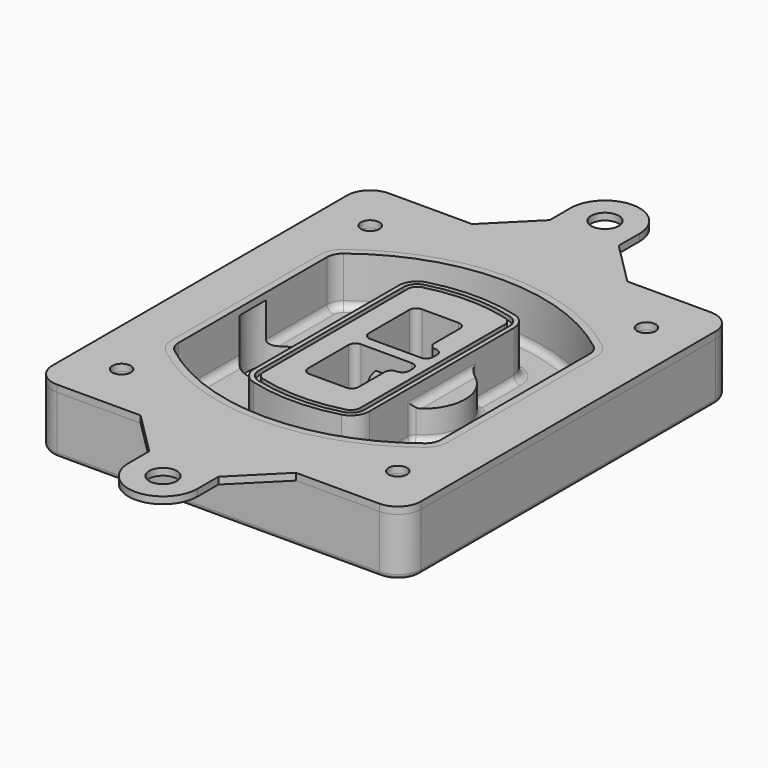
from build123d import *

# Parameters (mm, degrees)
F0_R      = 4
F1_DEPTH  = 25
F2_DEPTH  = 3
F3_DEPTH  = 18
F5_DEPTH  = 21
F6_DEPTH  = 2
F8_DEPTH  = 20
F9_DEPTH  = 16
F10_DEPTH = 25
F7_R      = 6
F7_R_2    = 4
F11_DEPTH = 6
F13_DEPTH = 9
F14_R     = 3
F15_R     = 2
F16_R     = 4
F16_R_2   = 6
F17_DEPTH = 3


with BuildPart() as f1:
    # F0 (on Top) → F1 (new body)
    with BuildSketch(Plane.XY):
        with BuildLine():
            ThreePointArc((-80, -80), (-77.0710678119, -87.0710678119), (-70, -90))
            Line((-70, -90), (70, -90))
            ThreePointArc((70, -90), (77.0710678119, -87.0710678119), (80, -80))
            Line((80, -80), (80, 80))
            ThreePointArc((80, 80), (77.0710678119, 87.0710678119), (70, 90))
            Line((70, 90), (-70, 90))
            ThreePointArc((-70, 90), (-77.0710678119, 87.0710678119), (-80, 80))
            Line((-80, 80), (-80, -80))
        make_face()
        with Locations((-60, -67.5)):
            Circle(F0_R, mode=Mode.SUBTRACT)
        with Locations((60, -67.5)):
            Circle(F0_R, mode=Mode.SUBTRACT)
        with Locations((-60, 67.5)):
            Circle(F0_R, mode=Mode.SUBTRACT)
        with BuildLine():
            ThreePointArc((-64, 40.2934422872), (-62.5820384798, 46.4328484224), (-58.6153846154, 51.3286200352))
            ThreePointArc((-58.6153846154, 51.3286200352), (0, 71.5), (58.6153846154, 51.3286200352))
            ThreePointArc((58.6153846154, 51.3286200352), (62.5820384798, 46.4328484224), (64, 40.2934422872))
            Line((64, 40.2934422872), (64, -40.2934422872))
            ThreePointArc((64, -40.2934422872), (62.5820384798, -46.4328484224), (58.6153846154, -51.3286200352))
            ThreePointArc((58.6153846154, -51.3286200352), (0, -71.5), (-58.6153846154, -51.3286200352))
            ThreePointArc((-58.6153846154, -51.3286200352), (-62.5820384798, -46.4328484224), (-64, -40.2934422872))
            Line((-64, -40.2934422872), (-64, 40.2934422872))
        make_face(mode=Mode.SUBTRACT)
        with Locations((60, 67.5)):
            Circle(F0_R, mode=Mode.SUBTRACT)
        with BuildLine():
            ThreePointArc((58.6153846154, 51.3286200352), (0, 71.5), (-58.6153846154, 51.3286200352))
            ThreePointArc((-58.6153846154, 51.3286200352), (-62.5820384798, 46.4328484224), (-64, 40.2934422872))
            Line((-64, 40.2934422872), (-64, -40.2934422872))
            ThreePointArc((-64, -40.2934422872), (-62.5820384798, -46.4328484224), (-58.6153846154, -51.3286200352))
            ThreePointArc((-58.6153846154, -51.3286200352), (0, -71.5), (58.6153846154, -51.3286200352))
            ThreePointArc((58.6153846154, -51.3286200352), (62.5820384798, -46.4328484224), (64, -40.2934422872))
            Line((64, -40.2934422872), (64, 40.2934422872))
            ThreePointArc((64, 40.2934422872), (62.5820384798, 46.4328484224), (58.6153846154, 51.3286200352))
        make_face()
        with BuildLine():
            Line((-60, -40.2934422872), (-60, 40.2934422872))
            ThreePointArc((-60, 40.2934422872), (-58.9871703427, 44.6787323838), (-56.1538461538, 48.1757121072))
            ThreePointArc((-56.1538461538, 48.1757121072), (0, 67.5), (56.1538461538, 48.1757121072))
            ThreePointArc((56.1538461538, 48.1757121072), (58.9871703427, 44.6787323838), (60, 40.2934422872))
            Line((60, 40.2934422872), (60, -40.2934422872))
            ThreePointArc((60, -40.2934422872), (58.9871703427, -44.6787323838), (56.1538461538, -48.1757121072))
            ThreePointArc((56.1538461538, -48.1757121072), (0, -67.5), (-56.1538461538, -48.1757121072))
            ThreePointArc((-56.1538461538, -48.1757121072), (-58.9871703427, -44.6787323838), (-60, -40.2934422872))
        make_face(mode=Mode.SUBTRACT)
        with BuildLine():
            ThreePointArc((-56.1538461538, 48.1757121072), (-58.9871703427, 44.6787323838), (-60, 40.2934422872))
            Line((-60, 40.2934422872), (-60, -40.2934422872))
            ThreePointArc((-60, -40.2934422872), (-58.9871703427, -44.6787323838), (-56.1538461538, -48.1757121072))
            ThreePointArc((-56.1538461538, -48.1757121072), (0, -67.5), (56.1538461538, -48.1757121072))
            ThreePointArc((56.1538461538, -48.1757121072), (58.9871703427, -44.6787323838), (60, -40.2934422872))
            Line((60, -40.2934422872), (60, 40.2934422872))
            ThreePointArc((60, 40.2934422872), (58.9871703427, 44.6787323838), (56.1538461538, 48.1757121072))
            ThreePointArc((56.1538461538, 48.1757121072), (0, 67.5), (-56.1538461538, 48.1757121072))
        make_face()
        with BuildLine():
            ThreePointArc((54.3076923077, 45.8110311612), (56.2910192399, 43.3631453548), (57, 40.2934422872))
            Line((57, 40.2934422872), (57, -40.2934422872))
            ThreePointArc((57, -40.2934422872), (56.2910192399, -43.3631453548), (54.3076923077, -45.8110311612))
            ThreePointArc((54.3076923077, -45.8110311612), (0, -64.5), (-54.3076923077, -45.8110311612))
            ThreePointArc((-54.3076923077, -45.8110311612), (-56.2910192399, -43.3631453548), (-57, -40.2934422872))
            Line((-57, -40.2934422872), (-57, 40.2934422872))
            ThreePointArc((-57, 40.2934422872), (-56.2910192399, 43.3631453548), (-54.3076923077, 45.8110311612))
            ThreePointArc((-54.3076923077, 45.8110311612), (0, 64.5), (54.3076923077, 45.8110311612))
        make_face(mode=Mode.SUBTRACT)
        with BuildLine():
            Line((57, -40.2934422872), (57, 40.2934422872))
            ThreePointArc((57, 40.2934422872), (56.2910192399, 43.3631453548), (54.3076923077, 45.8110311612))
            ThreePointArc((54.3076923077, 45.8110311612), (0, 64.5), (-54.3076923077, 45.8110311612))
            ThreePointArc((-54.3076923077, 45.8110311612), (-56.2910192399, 43.3631453548), (-57, 40.2934422872))
            Line((-57, 40.2934422872), (-57, -40.2934422872))
            ThreePointArc((-57, -40.2934422872), (-56.2910192399, -43.3631453548), (-54.3076923077, -45.8110311612))
            ThreePointArc((-54.3076923077, -45.8110311612), (0, -64.5), (54.3076923077, -45.8110311612))
            ThreePointArc((54.3076923077, -45.8110311612), (56.2910192399, -43.3631453548), (57, -40.2934422872))
        make_face()
    extrude(amount=-F1_DEPTH)

    # F0 (on Top) → F2 (join)
    with BuildSketch(Plane.XY):
        with BuildLine():
            ThreePointArc((-56.1538461538, 48.1757121072), (-58.9871703427, 44.6787323838), (-60, 40.2934422872))
            Line((-60, 40.2934422872), (-60, -40.2934422872))
            ThreePointArc((-60, -40.2934422872), (-58.9871703427, -44.6787323838), (-56.1538461538, -48.1757121072))
            ThreePointArc((-56.1538461538, -48.1757121072), (0, -67.5), (56.1538461538, -48.1757121072))
            ThreePointArc((56.1538461538, -48.1757121072), (58.9871703427, -44.6787323838), (60, -40.2934422872))
            Line((60, -40.2934422872), (60, 40.2934422872))
            ThreePointArc((60, 40.2934422872), (58.9871703427, 44.6787323838), (56.1538461538, 48.1757121072))
            ThreePointArc((56.1538461538, 48.1757121072), (0, 67.5), (-56.1538461538, 48.1757121072))
        make_face()
        with BuildLine():
            ThreePointArc((54.3076923077, 45.8110311612), (56.2910192399, 43.3631453548), (57, 40.2934422872))
            Line((57, 40.2934422872), (57, -40.2934422872))
            ThreePointArc((57, -40.2934422872), (56.2910192399, -43.3631453548), (54.3076923077, -45.8110311612))
            ThreePointArc((54.3076923077, -45.8110311612), (0, -64.5), (-54.3076923077, -45.8110311612))
            ThreePointArc((-54.3076923077, -45.8110311612), (-56.2910192399, -43.3631453548), (-57, -40.2934422872))
            Line((-57, -40.2934422872), (-57, 40.2934422872))
            ThreePointArc((-57, 40.2934422872), (-56.2910192399, 43.3631453548), (-54.3076923077, 45.8110311612))
            ThreePointArc((-54.3076923077, 45.8110311612), (0, 64.5), (54.3076923077, 45.8110311612))
        make_face(mode=Mode.SUBTRACT)
    extrude(amount=F2_DEPTH)

    # F0 (on Top) → F3 (cut)
    with BuildSketch(Plane.XY):
        with BuildLine():
            Line((57, -40.2934422872), (57, 40.2934422872))
            ThreePointArc((57, 40.2934422872), (56.2910192399, 43.3631453548), (54.3076923077, 45.8110311612))
            ThreePointArc((54.3076923077, 45.8110311612), (0, 64.5), (-54.3076923077, 45.8110311612))
            ThreePointArc((-54.3076923077, 45.8110311612), (-56.2910192399, 43.3631453548), (-57, 40.2934422872))
            Line((-57, 40.2934422872), (-57, -40.2934422872))
            ThreePointArc((-57, -40.2934422872), (-56.2910192399, -43.3631453548), (-54.3076923077, -45.8110311612))
            ThreePointArc((-54.3076923077, -45.8110311612), (0, -64.5), (54.3076923077, -45.8110311612))
            ThreePointArc((54.3076923077, -45.8110311612), (56.2910192399, -43.3631453548), (57, -40.2934422872))
        make_face()
    extrude(amount=-F3_DEPTH, mode=Mode.SUBTRACT)

    # F4 (on face) → F5 (join, through all)
    with BuildSketch(Plane.XY.offset(3)):
        with BuildLine():
            ThreePointArc((-25, -39.2465276821), (-23.3511545998, -44.1109737193), (-19.0842911877, -46.9702398883))
            ThreePointArc((-19.0842911877, -46.9702398883), (0, -49.5), (19.0842911877, -46.9702398883))
            ThreePointArc((19.0842911877, -46.9702398883), (23.3511545998, -44.1109737193), (25, -39.2465276821))
            Line((25, -39.2465276821), (25, 39.2465276821))
            ThreePointArc((25, 39.2465276821), (23.3511545998, 44.1109737193), (19.0842911877, 46.9702398883))
            ThreePointArc((19.0842911877, 46.9702398883), (0, 49.5), (-19.0842911877, 46.9702398883))
            ThreePointArc((-19.0842911877, 46.9702398883), (-23.3511545998, 44.1109737193), (-25, 39.2465276821))
            Line((-25, 39.2465276821), (-25, -39.2465276821))
        make_face()
        with BuildLine():
            ThreePointArc((18.5632183908, 45.0393118368), (21.7633659499, 42.89486221), (23, 39.2465276821))
            Line((23, 39.2465276821), (23, -39.2465276821))
            ThreePointArc((23, -39.2465276821), (21.7633659499, -42.89486221), (18.5632183908, -45.0393118368))
            ThreePointArc((18.5632183908, -45.0393118368), (0, -47.5), (-18.5632183908, -45.0393118368))
            ThreePointArc((-18.5632183908, -45.0393118368), (-21.7633659499, -42.89486221), (-23, -39.2465276821))
            Line((-23, -39.2465276821), (-23, 39.2465276821))
            ThreePointArc((-23, 39.2465276821), (-21.7633659499, 42.89486221), (-18.5632183908, 45.0393118368))
            ThreePointArc((-18.5632183908, 45.0393118368), (0, 47.5), (18.5632183908, 45.0393118368))
        make_face(mode=Mode.SUBTRACT)
        with BuildLine():
            Line((23, -39.2465276821), (23, 39.2465276821))
            ThreePointArc((23, 39.2465276821), (21.7633659499, 42.89486221), (18.5632183908, 45.0393118368))
            ThreePointArc((18.5632183908, 45.0393118368), (0, 47.5), (-18.5632183908, 45.0393118368))
            ThreePointArc((-18.5632183908, 45.0393118368), (-21.7633659499, 42.89486221), (-23, 39.2465276821))
            Line((-23, 39.2465276821), (-23, -39.2465276821))
            ThreePointArc((-23, -39.2465276821), (-21.7633659499, -42.89486221), (-18.5632183908, -45.0393118368))
            ThreePointArc((-18.5632183908, -45.0393118368), (0, -47.5), (18.5632183908, -45.0393118368))
            ThreePointArc((18.5632183908, -45.0393118368), (21.7633659499, -42.89486221), (23, -39.2465276821))
        make_face()
        with BuildLine():
            ThreePointArc((18.0421455939, 43.1083837852), (20.1755772999, 41.6787507007), (21, 39.2465276821))
            Line((21, 39.2465276821), (21, -39.2465276821))
            ThreePointArc((21, -39.2465276821), (20.1755772999, -41.6787507007), (18.0421455939, -43.1083837852))
            ThreePointArc((18.0421455939, -43.1083837852), (0, -45.5), (-18.0421455939, -43.1083837852))
            ThreePointArc((-18.0421455939, -43.1083837852), (-20.1755772999, -41.6787507007), (-21, -39.2465276821))
            Line((-21, -39.2465276821), (-21, 39.2465276821))
            ThreePointArc((-21, 39.2465276821), (-20.1755772999, 41.6787507007), (-18.0421455939, 43.1083837852))
            ThreePointArc((-18.0421455939, 43.1083837852), (0, 45.5), (18.0421455939, 43.1083837852))
        make_face(mode=Mode.SUBTRACT)
        with BuildLine():
            Line((21, -39.2465276821), (21, 39.2465276821))
            ThreePointArc((21, 39.2465276821), (20.1755772999, 41.6787507007), (18.0421455939, 43.1083837852))
            ThreePointArc((18.0421455939, 43.1083837852), (0, 45.5), (-18.0421455939, 43.1083837852))
            ThreePointArc((-18.0421455939, 43.1083837852), (-20.1755772999, 41.6787507007), (-21, 39.2465276821))
            Line((-21, 39.2465276821), (-21, -39.2465276821))
            ThreePointArc((-21, -39.2465276821), (-20.1755772999, -41.6787507007), (-18.0421455939, -43.1083837852))
            ThreePointArc((-18.0421455939, -43.1083837852), (0, -45.5), (18.0421455939, -43.1083837852))
            ThreePointArc((18.0421455939, -43.1083837852), (20.1755772999, -41.6787507007), (21, -39.2465276821))
        make_face()
        with BuildLine():
            Line((-8, -2.5), (14, -2.5))
            ThreePointArc((14, -2.5), (16.1213203436, -3.3786796564), (17, -5.5))
            Line((17, -5.5), (17, -7.5))
            ThreePointArc((17, -7.5), (16.1213203436, -9.6213203436), (14, -10.5))
            ThreePointArc((14, -10.5), (11.8786796564, -11.3786796564), (11, -13.5))
            Line((11, -13.5), (11, -27.5))
            ThreePointArc((11, -27.5), (10.1213203436, -29.6213203436), (8, -30.5))
            Line((8, -30.5), (-8, -30.5))
            ThreePointArc((-8, -30.5), (-10.1213203436, -29.6213203436), (-11, -27.5))
            Line((-11, -27.5), (-11, -5.5))
            ThreePointArc((-11, -5.5), (-10.1213203436, -3.3786796564), (-8, -2.5))
        make_face(mode=Mode.SUBTRACT)
        with BuildLine():
            ThreePointArc((-8, 2.5), (-10.1213203436, 3.3786796564), (-11, 5.5))
            Line((-11, 5.5), (-11, 27.5))
            ThreePointArc((-11, 27.5), (-10.1213203436, 29.6213203436), (-8, 30.5))
            Line((-8, 30.5), (8, 30.5))
            ThreePointArc((8, 30.5), (10.1213203436, 29.6213203436), (11, 27.5))
            Line((11, 27.5), (11, 13.5))
            ThreePointArc((11, 13.5), (11.8786796564, 11.3786796564), (14, 10.5))
            ThreePointArc((14, 10.5), (16.1213203436, 9.6213203436), (17, 7.5))
            Line((17, 7.5), (17, 5.5))
            ThreePointArc((17, 5.5), (16.1213203436, 3.3786796564), (14, 2.5))
            Line((14, 2.5), (-8, 2.5))
        make_face(mode=Mode.SUBTRACT)
    extrude(amount=-F5_DEPTH)

    # F4 (on face) → F6 (cut)
    with BuildSketch(Plane.XY.offset(3)):
        with BuildLine():
            Line((23, -39.2465276821), (23, 39.2465276821))
            ThreePointArc((23, 39.2465276821), (21.7633659499, 42.89486221), (18.5632183908, 45.0393118368))
            ThreePointArc((18.5632183908, 45.0393118368), (0, 47.5), (-18.5632183908, 45.0393118368))
            ThreePointArc((-18.5632183908, 45.0393118368), (-21.7633659499, 42.89486221), (-23, 39.2465276821))
            Line((-23, 39.2465276821), (-23, -39.2465276821))
            ThreePointArc((-23, -39.2465276821), (-21.7633659499, -42.89486221), (-18.5632183908, -45.0393118368))
            ThreePointArc((-18.5632183908, -45.0393118368), (0, -47.5), (18.5632183908, -45.0393118368))
            ThreePointArc((18.5632183908, -45.0393118368), (21.7633659499, -42.89486221), (23, -39.2465276821))
        make_face()
        with BuildLine():
            ThreePointArc((18.0421455939, 43.1083837852), (20.1755772999, 41.6787507007), (21, 39.2465276821))
            Line((21, 39.2465276821), (21, -39.2465276821))
            ThreePointArc((21, -39.2465276821), (20.1755772999, -41.6787507007), (18.0421455939, -43.1083837852))
            ThreePointArc((18.0421455939, -43.1083837852), (0, -45.5), (-18.0421455939, -43.1083837852))
            ThreePointArc((-18.0421455939, -43.1083837852), (-20.1755772999, -41.6787507007), (-21, -39.2465276821))
            Line((-21, -39.2465276821), (-21, 39.2465276821))
            ThreePointArc((-21, 39.2465276821), (-20.1755772999, 41.6787507007), (-18.0421455939, 43.1083837852))
            ThreePointArc((-18.0421455939, 43.1083837852), (0, 45.5), (18.0421455939, 43.1083837852))
        make_face(mode=Mode.SUBTRACT)
    extrude(amount=-F6_DEPTH, mode=Mode.SUBTRACT)

    # F7 (on face) → F8 (join)
    with BuildSketch(Plane(origin=(0, 0, -25), x_dir=(1, 0, 0), z_dir=(0, 0, -1))):
        with BuildLine():
            ThreePointArc((3.28842436, 0), (16.7567035675, 13.4682792075), (30.224982775, 0))
            Line((30.224982775, 0), (35.224982775, 0))
            ThreePointArc((35.224982775, 0), (16.7567035675, 18.4682792075), (-1.71157564, 0))
            Line((-1.71157564, 0), (3.28842436, 0))
        make_face()
        with BuildLine():
            Line((3.28842436, 0), (30.224982775, 0))
            ThreePointArc((30.224982775, 0), (16.7567035675, 13.4682792075), (3.28842436, 0))
        make_face()
        with BuildLine():
            ThreePointArc((3.28842436, 0), (16.7567035675, -13.4682792075), (30.224982775, 0))
            Line((30.224982775, 0), (3.28842436, 0))
        make_face()
        with BuildLine():
            Line((35.224982775, 0), (30.224982775, 0))
            ThreePointArc((30.224982775, 0), (16.7567035675, -13.4682792075), (3.28842436, 0))
            Line((3.28842436, 0), (-1.71157564, 0))
            ThreePointArc((-1.71157564, 0), (16.7567035675, -18.4682792075), (35.224982775, 0))
        make_face()
    extrude(amount=-F8_DEPTH)

    # F7 (on face) → F9 (cut)
    with BuildSketch(Plane(origin=(0, 0, -25), x_dir=(1, 0, 0), z_dir=(0, 0, -1))):
        with BuildLine():
            Line((3.28842436, 0), (30.224982775, 0))
            ThreePointArc((30.224982775, 0), (16.7567035675, 13.4682792075), (3.28842436, 0))
        make_face()
        with BuildLine():
            ThreePointArc((3.28842436, 0), (16.7567035675, -13.4682792075), (30.224982775, 0))
            Line((30.224982775, 0), (3.28842436, 0))
        make_face()
    extrude(amount=-F9_DEPTH, mode=Mode.SUBTRACT)

    # F7 (on face) → F10 (cut)
    with BuildSketch(Plane(origin=(0, 0, -25), x_dir=(1, 0, 0), z_dir=(0, 0, -1))):
        with BuildLine():
            Line((-59.0318229325, 0), (-32.0952645175, 0))
            ThreePointArc((-32.0952645175, 0), (-45.563543725, 13.4682792075), (-59.0318229325, 0))
        make_face()
        with BuildLine():
            ThreePointArc((-59.0318229325, 0), (-45.563543725, -13.4682792075), (-32.0952645175, 0))
            Line((-32.0952645175, 0), (-59.0318229325, 0))
        make_face()
    extrude(amount=-F10_DEPTH, mode=Mode.SUBTRACT)

    # F7 (on face) → F11 (cut)
    with BuildSketch(Plane(origin=(0, 0, -25), x_dir=(1, 0, 0), z_dir=(0, 0, -1))):
        with Locations((60, -67.5)):
            Circle(F7_R)
        with Locations((60, -67.5)):
            Circle(F7_R_2, mode=Mode.SUBTRACT)
        with Locations((60, -67.5)):
            Circle(F7_R)
        with Locations((60, -67.5)):
            Circle(F7_R_2, mode=Mode.SUBTRACT)
        with Locations((-60, -67.5)):
            Circle(F7_R)
        with Locations((-60, -67.5)):
            Circle(F7_R_2, mode=Mode.SUBTRACT)
        with Locations((-60, -67.5)):
            Circle(F7_R)
        with Locations((-60, -67.5)):
            Circle(F7_R_2, mode=Mode.SUBTRACT)
        with Locations((-60, 67.5)):
            Circle(F7_R)
        with Locations((-60, 67.5)):
            Circle(F7_R_2, mode=Mode.SUBTRACT)
        with Locations((-60, 67.5)):
            Circle(F7_R)
        with Locations((-60, 67.5)):
            Circle(F7_R_2, mode=Mode.SUBTRACT)
        with Locations((60, 67.5)):
            Circle(F7_R)
        with Locations((60, 67.5)):
            Circle(F7_R_2, mode=Mode.SUBTRACT)
        with Locations((60, 67.5)):
            Circle(F7_R)
        with Locations((60, 67.5)):
            Circle(F7_R_2, mode=Mode.SUBTRACT)
    extrude(amount=-F11_DEPTH, mode=Mode.SUBTRACT)

    # F12 (on face) → F13 (cut, through all)
    with BuildSketch(Plane(origin=(0, 0, -9), x_dir=(1, 0, 0), z_dir=(0, 0, -1))):
        with BuildLine():
            Line((11, 13.5), (11, 17.5481537753))
            ThreePointArc((11, 17.5481537753), (2.5696536419, 11.8239143813), (-1.5415842455, 2.5))
            Line((-1.5415842455, 2.5), (3.5224848595, 2.5))
            ThreePointArc((3.5224848595, 2.5), (6.1857188154, 8.3455872281), (11.2536447004, 12.2927168648))
            ThreePointArc((11.2536447004, 12.2927168648), (11.0640958889, 12.8831798879), (11, 13.5))
        make_face()
        with BuildLine():
            ThreePointArc((11.2536447004, -12.2927168648), (6.1857188154, -8.3455872281), (3.5224848595, -2.5))
            Line((3.5224848595, -2.5), (-1.5415842455, -2.5))
            ThreePointArc((-1.5415842455, -2.5), (2.5696536419, -11.8239143813), (11, -17.5481537753))
            Line((11, -17.5481537753), (11, -13.5))
            ThreePointArc((11, -13.5), (11.0640958889, -12.8831798879), (11.2536447004, -12.2927168648))
        make_face()
        with BuildLine():
            ThreePointArc((11.2536447004, 12.2927168648), (6.1857188154, 8.3455872281), (3.5224848595, 2.5))
            Line((3.5224848595, 2.5), (14, 2.5))
            ThreePointArc((14, 2.5), (16.1213203436, 3.3786796564), (17, 5.5))
            Line((17, 5.5), (17, 7.5))
            ThreePointArc((17, 7.5), (16.1213203436, 9.6213203436), (14, 10.5))
            ThreePointArc((14, 10.5), (12.3601599782, 10.9878446101), (11.2536447004, 12.2927168648))
        make_face()
        with BuildLine():
            Line((14, -2.5), (3.5224848595, -2.5))
            ThreePointArc((3.5224848595, -2.5), (6.1857188154, -8.3455872281), (11.2536447004, -12.2927168648))
            ThreePointArc((11.2536447004, -12.2927168648), (12.3601599782, -10.9878446101), (14, -10.5))
            ThreePointArc((14, -10.5), (16.1213203436, -9.6213203436), (17, -7.5))
            Line((17, -7.5), (17, -5.5))
            ThreePointArc((17, -5.5), (16.1213203436, -3.3786796564), (14, -2.5))
        make_face()
    extrude(amount=F13_DEPTH, mode=Mode.SUBTRACT)

    # F14
    f14_edges = [f1.edges().sort_by_distance(p)[0] for p in [
        (-57, -23.703476, -18),
        (-57, 23.703476, -18),
        (25, 0, -5),
        (25, 16.526506, -11.5),
        (25, -16.526506, -11.5),
        (25, -27.886517, -18),
        (35.224983, 0, -18),
    ]]
    fillet(f14_edges, radius=F14_R)

    # F15
    f15_edges = [f1.edges().sort_by_distance(p)[0] for p in [
        (0, -90, -25),
    ]]
    fillet(f15_edges, radius=F15_R)


with BuildPart() as f17:
    # F16 (on face) → F17 (new body, through all)
    with BuildSketch(Plane.XY):
        with BuildLine():
            Line((-80, 80), (-80, -80))
            ThreePointArc((-80, -80), (-77.0710678119, -87.0710678119), (-70, -90))
            Line((-70, -90), (-33.7105513811, -90))
            Line((-33.7105513811, -90), (33.7105513811, -90))
            Line((33.7105513811, -90), (70, -90))
            ThreePointArc((70, -90), (77.0710678119, -87.0710678119), (80, -80))
            Line((80, -80), (80, 80))
            ThreePointArc((80, 80), (77.0710678119, 87.0710678119), (70, 90))
            Line((70, 90), (33.7105513811, 90))
            Line((33.7105513811, 90), (-33.7105513811, 90))
            Line((-33.7105513811, 90), (-70, 90))
            ThreePointArc((-70, 90), (-77.0710678119, 87.0710678119), (-80, 80))
        make_face()
        with Locations((-60, -67.5)):
            Circle(F16_R, mode=Mode.SUBTRACT)
        with Locations((60, -67.5)):
            Circle(F16_R, mode=Mode.SUBTRACT)
        with Locations((-60, 67.5)):
            Circle(F16_R, mode=Mode.SUBTRACT)
        with BuildLine():
            ThreePointArc((56.1538461538, -48.1757121072), (0, -67.5), (-56.1538461538, -48.1757121072))
            ThreePointArc((-56.1538461538, -48.1757121072), (-58.9871703427, -44.6787323838), (-60, -40.2934422872))
            Line((-60, -40.2934422872), (-60, 40.2934422872))
            ThreePointArc((-60, 40.2934422872), (-58.9871703427, 44.6787323838), (-56.1538461538, 48.1757121072))
            ThreePointArc((-56.1538461538, 48.1757121072), (0, 67.5), (56.1538461538, 48.1757121072))
            ThreePointArc((56.1538461538, 48.1757121072), (58.9871703427, 44.6787323838), (60, 40.2934422872))
            Line((60, 40.2934422872), (60, -40.2934422872))
            ThreePointArc((60, -40.2934422872), (58.9871703427, -44.6787323838), (56.1538461538, -48.1757121072))
        make_face(mode=Mode.SUBTRACT)
        with Locations((60, 67.5)):
            Circle(F16_R, mode=Mode.SUBTRACT)
        with BuildLine():
            Line((33.7105513811, -90), (-33.7105513811, -90))
            Line((-33.7105513811, -90), (-15, -108.7105513811))
            Line((-15, -108.7105513811), (-15, -120))
            ThreePointArc((-15, -120), (0, -135), (15, -120))
            Line((15, -120), (15, -108.7105513811))
            Line((15, -108.7105513811), (33.7105513811, -90))
        make_face()
        with Locations((0, -120)):
            Circle(F16_R_2, mode=Mode.SUBTRACT)
        with BuildLine():
            Line((-15, 108.7105513811), (-33.7105513811, 90))
            Line((-33.7105513811, 90), (33.7105513811, 90))
            Line((33.7105513811, 90), (15, 108.7105513811))
            Line((15, 108.7105513811), (15, 120))
            ThreePointArc((15, 120), (0, 135), (-15, 120))
            Line((-15, 120), (-15, 108.7105513811))
        make_face()
        with Locations((0, 120)):
            Circle(F16_R_2, mode=Mode.SUBTRACT)
    extrude(amount=F17_DEPTH)


solid = Compound([f1.part, f17.part])
